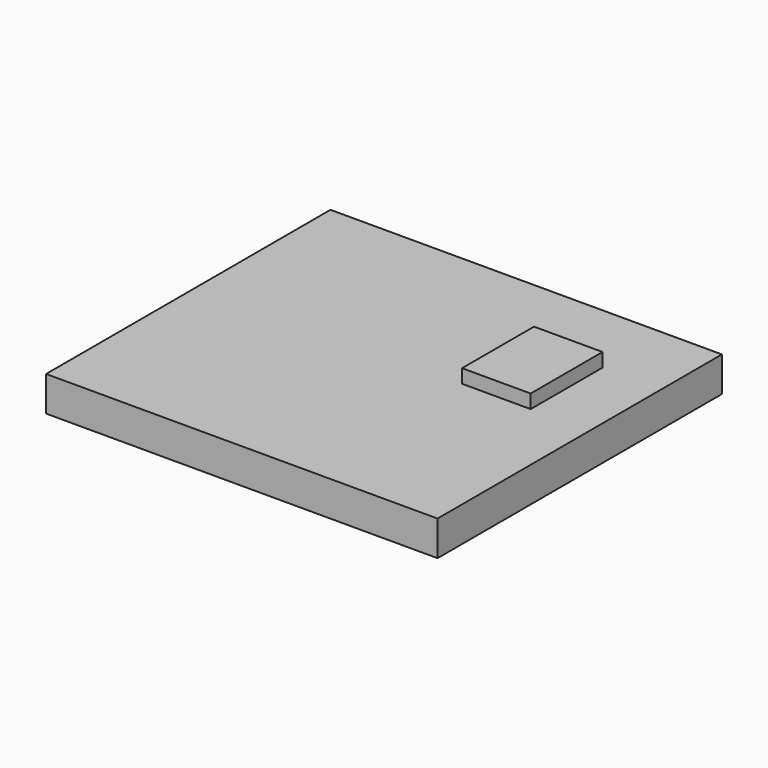
from build123d import *

# Parameters (mm, degrees)
F0_W     = 3.241164
F0_H     = 4.249724
F1_DEPTH = 2.3
F0_W_2   = 18.5
F0_H_2   = 16.8
F2_DEPTH = 1.65


with BuildPart() as f1:
    # F0 (on Top) → F1 (new body)
    with BuildSketch(Plane.XY):
        Rectangle(F0_W, F0_H)
    extrude(amount=F1_DEPTH)

    # F0 (on Top) → F2 (join)
    with BuildSketch(Plane.XY):
        with Locations((-4.85, -2.7)):
            Rectangle(F0_W_2, F0_H_2)
        Rectangle(F0_W, F0_H, mode=Mode.SUBTRACT)
    extrude(amount=F2_DEPTH)


solid = f1.part
